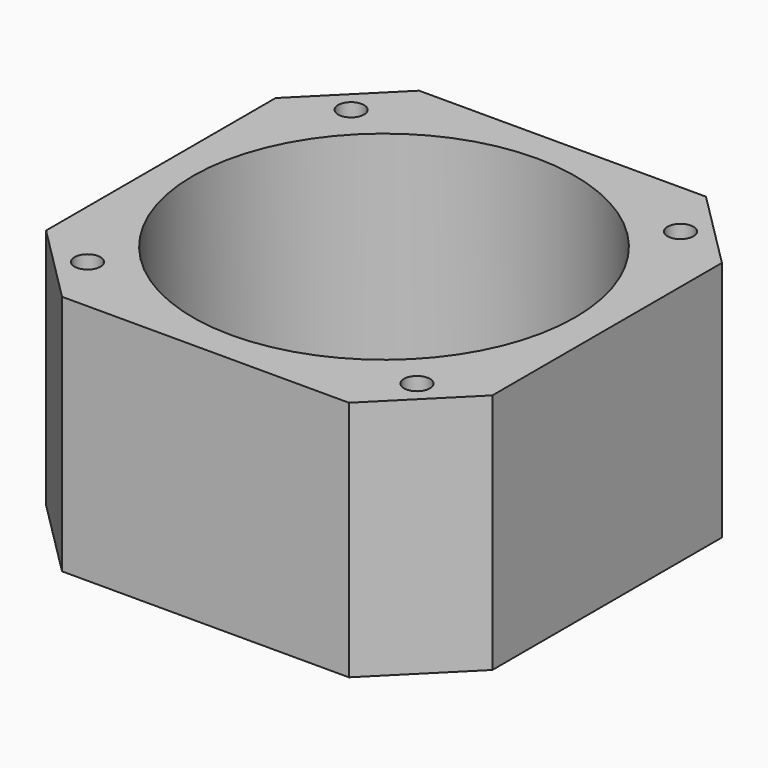
from build123d import *

# Parameters (mm, degrees)
SKETCH005_W     = 42
SKETCH005_H     = 42
PAD002_DEPTH    = 22.75
CHAMFER001_SIZE = 7.5
SKETCH008_R     = 1.22
POCKET003_DEPTH = 22.751
SKETCH013_R     = 18
POCKET012_DEPTH = 22.751


with BuildPart() as part:
    # Sketch005 → Pad002 (new body)
    with BuildSketch(Plane.XY):
        Rectangle(SKETCH005_W, SKETCH005_H)
    extrude(amount=PAD002_DEPTH)

    # Chamfer001
    chamfer001_edges = [part.edges().sort_by_distance(p)[0] for p in [
        (-21, -21, 11.375),
        (-21, 21, 11.375),
        (21, -21, 11.375),
        (21, 21, 11.375),
    ]]
    chamfer(chamfer001_edges, length=CHAMFER001_SIZE)

    # Sketch008 (on Face2 of Chamfer001) → Pocket003 (cut, through all)
    with BuildSketch(Plane(origin=(0, 0, 0), x_dir=(1, 0, 0), z_dir=(0, 0, -1))):
        with Locations((-15.5, 15.5)):
            Circle(SKETCH008_R)
        with Locations((15.5, 15.5)):
            Circle(SKETCH008_R)
        with Locations((15.5, -15.5)):
            Circle(SKETCH008_R)
        with Locations((-15.5, -15.5)):
            Circle(SKETCH008_R)
    extrude(amount=-POCKET003_DEPTH, mode=Mode.SUBTRACT)

    # Sketch013 (on Face5 of Pocket003) → Pocket012 (cut, through all)
    with BuildSketch(Plane.XY.offset(22.75)):
        Circle(SKETCH013_R)
    extrude(amount=-POCKET012_DEPTH, mode=Mode.SUBTRACT)


with BuildPart() as part_1:
    # Body001 placement: moved
    add(part.part.moved(Location((0, 0, 9.6))))


solid = part_1.part
